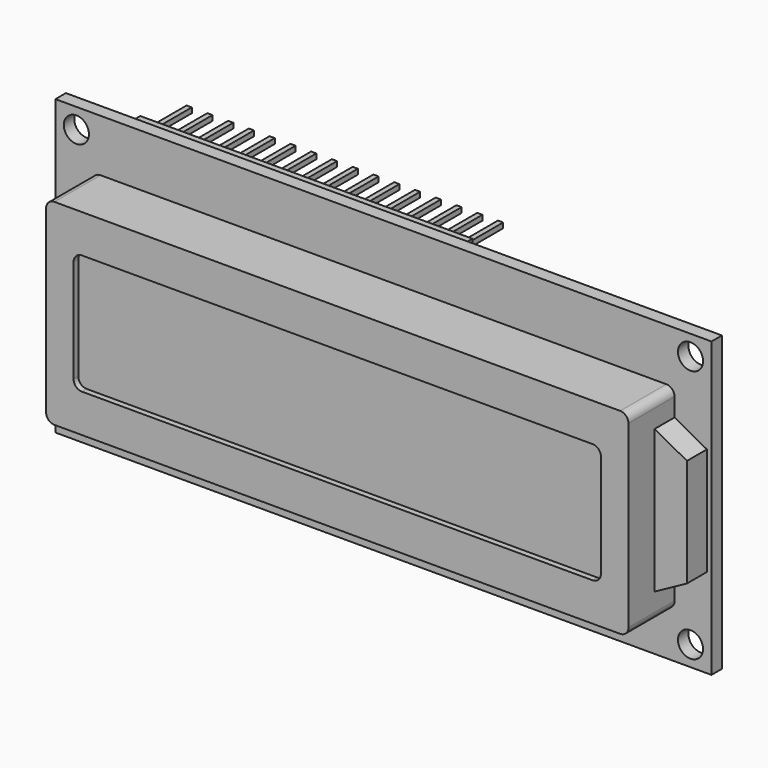
from build123d import *

# Parameters (mm, degrees)
F0_W      = 80.264
F0_H      = 35.9156
F0_R      = 1.5367
F1_DEPTH  = 1.6002
F3_DEPTH  = 7.0612
F5_DEPTH  = 0.7239
F7_DEPTH  = 3.048
F8_W      = 40.64
F8_H      = 2.54
F9_DEPTH  = 2.9464
F10_W     = 0.635
F10_H     = 0.635
F11_DEPTH = 5.8928


with BuildPart() as f1:
    # F0 (on Front) → F1 (new body)
    with BuildSketch(Plane.XZ):
        Rectangle(F0_W, F0_H)
        with Locations((-37.5666, -15.5067)):
            Circle(F0_R, mode=Mode.SUBTRACT)
        with Locations((37.5666, -15.5067)):
            Circle(F0_R, mode=Mode.SUBTRACT)
        with Locations((-37.5666, 15.5067)):
            Circle(F0_R, mode=Mode.SUBTRACT)
        with Locations((37.5666, 15.5067)):
            Circle(F0_R, mode=Mode.SUBTRACT)
    extrude(amount=-F1_DEPTH)


with BuildPart() as f3:
    # F2 (on face) → F3 (new body)
    with BuildSketch(Plane.XZ):
        with BuildLine():
            ThreePointArc((-35.6235, -11.4427), (-35.32592, -12.16112), (-34.6075, -12.4587))
            Line((-34.6075, -12.4587), (34.6075, -12.4587))
            ThreePointArc((34.6075, -12.4587), (35.32592, -12.16112), (35.6235, -11.4427))
            Line((35.6235, -11.4427), (35.6235, 10.541))
            ThreePointArc((35.6235, 10.541), (35.32592, 11.25942), (34.6075, 11.557))
            Line((34.6075, 11.557), (-34.6075, 11.557))
            ThreePointArc((-34.6075, 11.557), (-35.32592, 11.25942), (-35.6235, 10.541))
            Line((-35.6235, 10.541), (-35.6235, -11.4427))
        make_face()
    extrude(amount=F3_DEPTH)

    # F4 (on face) → F5 (cut)
    with BuildSketch(Plane.XZ.offset(7.0612)):
        with BuildLine():
            ThreePointArc((32.258, 5.8674), (31.96042, 6.58582), (31.242, 6.8834))
            Line((31.242, 6.8834), (-31.242, 6.8834))
            ThreePointArc((-31.242, 6.8834), (-31.96042, 6.58582), (-32.258, 5.8674))
            Line((-32.258, 5.8674), (-32.258, -6.7691))
            ThreePointArc((-32.258, -6.7691), (-31.96042, -7.48752), (-31.242, -7.7851))
            Line((-31.242, -7.7851), (31.242, -7.7851))
            ThreePointArc((31.242, -7.7851), (31.96042, -7.48752), (32.258, -6.7691))
            Line((32.258, -6.7691), (32.258, 5.8674))
        make_face()
    extrude(amount=-F5_DEPTH, mode=Mode.SUBTRACT)


with BuildPart() as f7:
    # F6 (on face) → F7 (new body)
    with BuildSketch(Plane.XZ):
        Polygon((39.5732, 6.15315), (35.6235, 8.31215), (35.6235, -9.21385), (39.5732, -7.05485), align=None)
    extrude(amount=F7_DEPTH)


with BuildPart() as f9:
    # F8 (on face) → F9 (new body)
    with BuildSketch(Plane(origin=(0, 1.6002, 0), x_dir=(-1, 0, 0), z_dir=(0, 1, 0))):
        with Locations((13.0683, 15.2146)):
            Rectangle(F8_W, F8_H)
    extrude(amount=F9_DEPTH)


with BuildPart() as f11:
    # F10 (on face) → F11 (new body)
    with BuildSketch(Plane(origin=(0, 4.5466, 0), x_dir=(-1, 0, 0), z_dir=(0, 1, 0))):
        with Locations((-5.9817, 15.2146)):
            Rectangle(F10_W, F10_H)
        with Locations((-3.4417, 15.2146)):
            Rectangle(F10_W, F10_H)
        with Locations((-0.9017, 15.2146)):
            Rectangle(F10_W, F10_H)
        with Locations((1.6383, 15.2146)):
            Rectangle(F10_W, F10_H)
        with Locations((4.1783, 15.2146)):
            Rectangle(F10_W, F10_H)
        with Locations((6.7183, 15.2146)):
            Rectangle(F10_W, F10_H)
        with Locations((9.2583, 15.2146)):
            Rectangle(F10_W, F10_H)
        with Locations((11.7983, 15.2146)):
            Rectangle(F10_W, F10_H)
        with Locations((14.3383, 15.2146)):
            Rectangle(F10_W, F10_H)
        with Locations((16.8783, 15.2146)):
            Rectangle(F10_W, F10_H)
        with Locations((19.4183, 15.2146)):
            Rectangle(F10_W, F10_H)
        with Locations((21.9583, 15.2146)):
            Rectangle(F10_W, F10_H)
        with Locations((24.4983, 15.2146)):
            Rectangle(F10_W, F10_H)
        with Locations((27.0383, 15.2146)):
            Rectangle(F10_W, F10_H)
        with Locations((29.5783, 15.2146)):
            Rectangle(F10_W, F10_H)
        with Locations((32.1183, 15.2146)):
            Rectangle(F10_W, F10_H)
    extrude(amount=F11_DEPTH)


solid = Compound([f1.part, f3.part, f7.part, f9.part, f11.part])
